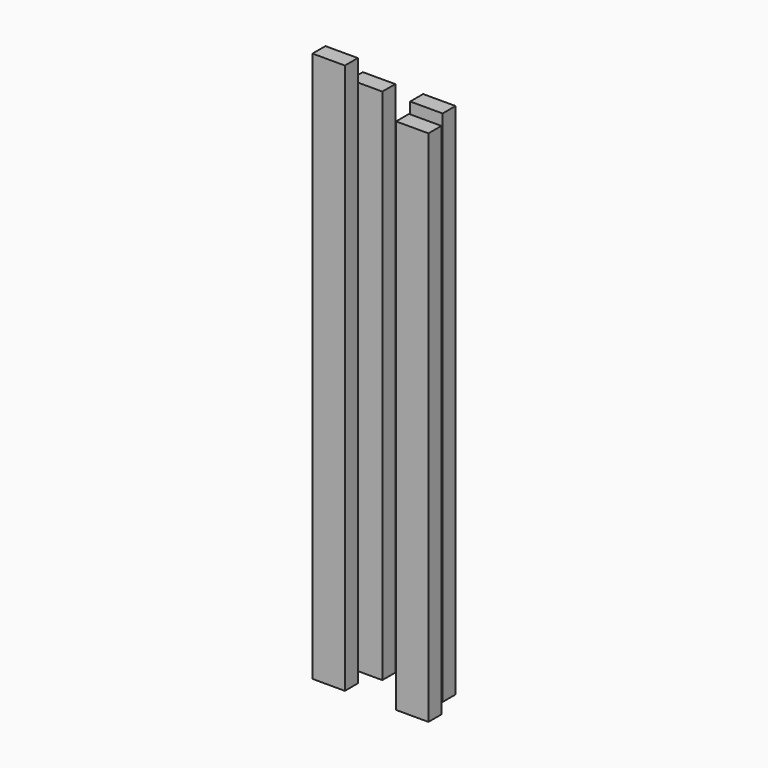
from build123d import *

# Parameters (mm, degrees)
F0_W     = 38.1
F0_H     = 19.05
F1_DEPTH = 609.6
F2_DEPTH = 609.6
F3_DEPTH = 647.7
F4_DEPTH = 609.6


with BuildPart() as f1:
    # F0 (on Top) → F1 (new body)
    with BuildSketch(Plane.XY):
        with Locations((-46.408225, 35.248306)):
            Rectangle(F0_W, F0_H)
    extrude(amount=F1_DEPTH)


with BuildPart() as f2:
    # F0 (on Top) → F2 (new body)
    with BuildSketch(Plane.XY):
        with Locations((24.019392, 35.830379)):
            Rectangle(F0_W, F0_H)
    extrude(amount=F2_DEPTH)


with BuildPart() as f3:
    # F0 (on Top) → F3 (new body)
    with BuildSketch(Plane.XY):
        with Locations((-59.925463, -2.9134)):
            Rectangle(F0_W, F0_H)
    extrude(amount=F3_DEPTH)


with BuildPart() as f4:
    # F0 (on Top) → F4 (new body)
    with BuildSketch(Plane.XY):
        with Locations((38.618498, -3.194152)):
            Rectangle(F0_W, F0_H)
    extrude(amount=F4_DEPTH)


solid = Compound([f1.part, f2.part, f3.part, f4.part])
